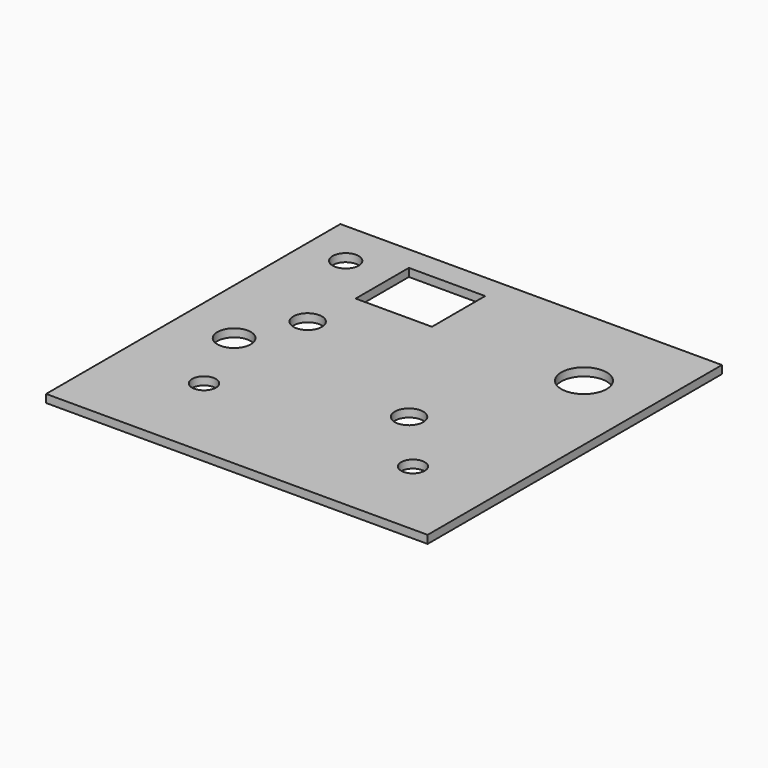
from build123d import *

# Parameters (mm, degrees)
F0_W     = 78.401766
F0_H     = 75.58734
F0_R     = 2.445637
F0_R_2   = 3.435203
F0_R_3   = 2.42072
F0_R_4   = 2.92704
F0_R_5   = 2.927043
F0_R_6   = 2.682078
F0_W_2   = 15.680349
F0_H_2   = 13.670053
F0_R_7   = 4.66286
F1_DEPTH = 1.651


with BuildPart() as f1:
    # F0 (on Top) → F1 (new body)
    with BuildSketch(Plane.XY):
        Rectangle(F0_W, F0_H)
        with Locations((-21.711256, -19.097865)):
            Circle(F0_R, mode=Mode.SUBTRACT)
        with Locations((-27.74216, -3.819573)):
            Circle(F0_R_2, mode=Mode.SUBTRACT)
        with Locations((22.515379, -20.706106)):
            Circle(F0_R_3, mode=Mode.SUBTRACT)
        with Locations((11.257689, -7.639146)):
            Circle(F0_R_4, mode=Mode.SUBTRACT)
        with Locations((-22.113316, 8.041206)):
            Circle(F0_R_5, mode=Mode.SUBTRACT)
        with Locations((-30.556584, 28.345251)):
            Circle(F0_R_6, mode=Mode.SUBTRACT)
        with Locations((-13.267989, 25.932892)):
            Rectangle(F0_W_2, F0_H_2, mode=Mode.SUBTRACT)
        with Locations((25.329798, 19.700956)):
            Circle(F0_R_7, mode=Mode.SUBTRACT)
    extrude(amount=F1_DEPTH)


solid = f1.part
